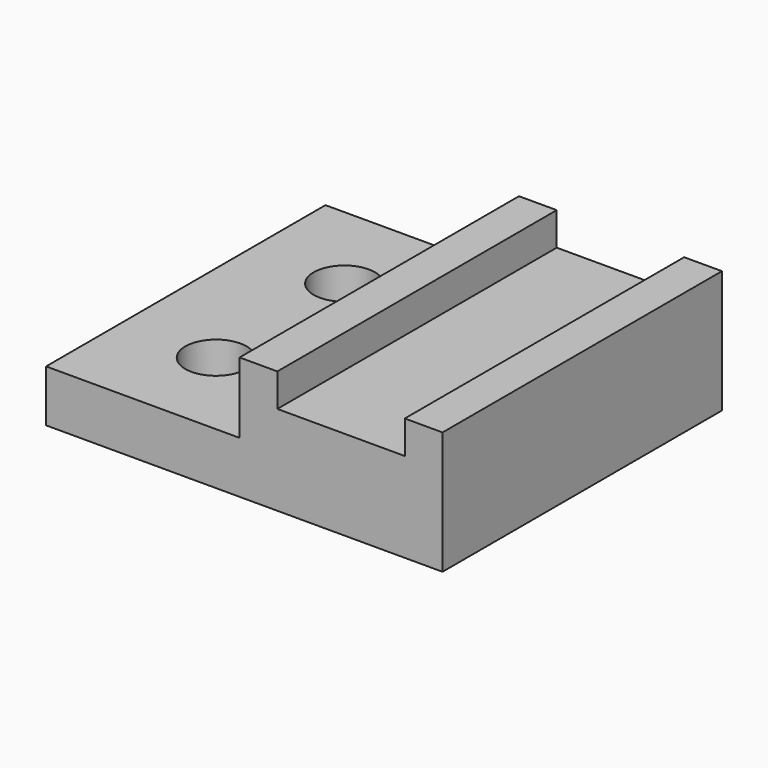
from build123d import *

# Parameters (mm, degrees)
F1_DEPTH = 117.475
F2_R     = 10.31875
F3_DEPTH = 17.4635


with BuildPart() as f1:
    # F0 (on Front) → F1 (new body)
    with BuildSketch(Plane.XZ):
        Polygon((-10.156453, 6.88358), (-75.243954, 6.88358), (-75.243954, -10.57892), (58.106046, -10.57892), (58.106046, 30.69608), (45.406046, 30.69608), (45.406046, 19.58358), (2.543546, 19.58358), (2.543546, 30.69608), (-10.156453, 30.69608), align=None)
    extrude(amount=F1_DEPTH)

    # F2 (on face) → F3 (cut, through all)
    with BuildSketch(Plane.XY.offset(6.88358)):
        with Locations((-43.493953, -85.725)):
            Circle(F2_R)
        with Locations((-43.493953, -31.75)):
            Circle(F2_R)
    extrude(amount=-F3_DEPTH, mode=Mode.SUBTRACT)


solid = f1.part
